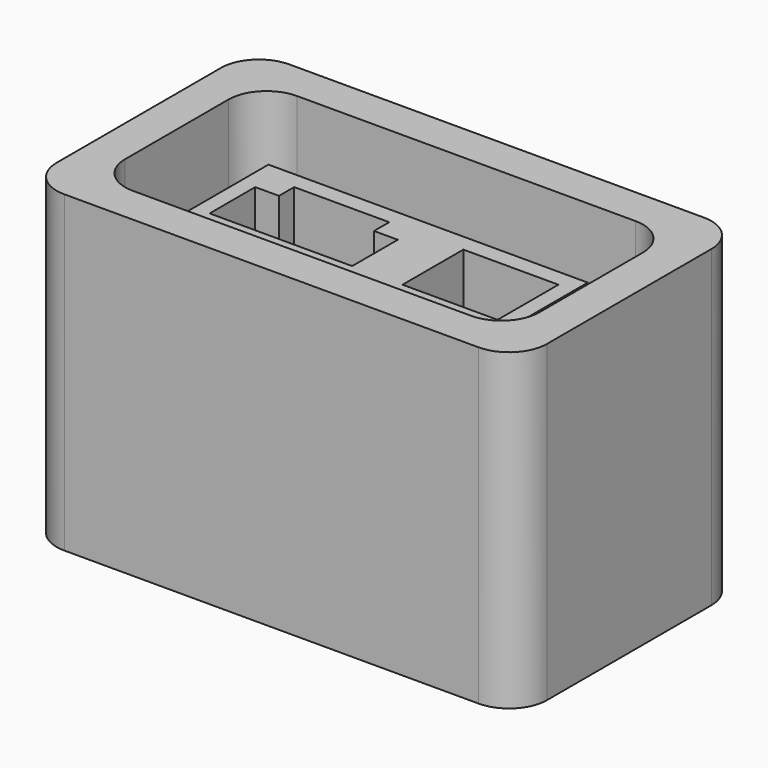
from build123d import *

# Parameters (mm, degrees)
F0_W      = 25.8
F0_H      = 14.8
F1_DEPTH  = 2
F2_W      = 25.8
F2_H      = 14.8
F2_W_2    = 21.8
F2_H_2    = 10.8
F3_DEPTH  = 14.5
F4_W      = 17.8
F4_H      = 6.8
F5_DEPTH  = 12.5
F7_DEPTH  = 17.8
F8_SIZE   = 0.5
F9_R      = 2
F10_W     = 5
F10_H     = 4
F11_DEPTH = 6
F12_W     = 17.8
F12_H     = 0.5
F12_H_2   = 2
F13_DEPTH = 1.8


with BuildPart() as f1:
    # F0 (on Top) → F1 (new body)
    with BuildSketch(Plane.XY):
        Rectangle(F0_W, F0_H)
    extrude(amount=F1_DEPTH)

    # F2 (on face) → F3 (join)
    with BuildSketch(Plane.XY.offset(2)):
        Rectangle(F2_W, F2_H)
        Rectangle(F2_W_2, F2_H_2, mode=Mode.SUBTRACT)
    extrude(amount=F3_DEPTH)

    # F4 (on face) → F5 (join)
    with BuildSketch(Plane.XY.offset(2)):
        Rectangle(F4_W, F4_H)
    extrude(amount=F5_DEPTH)

    # F6 (on face) → F7 (cut)
    with BuildSketch(Plane.YZ.offset(8.9)):
        Polygon((2.2, 2.000455), (3.4, 2), (3.4, 10), (2.2, 7.250455), align=None)
    extrude(amount=-F7_DEPTH, mode=Mode.SUBTRACT)

    # F8
    f8_edges = [f1.edges().sort_by_distance(p)[0] for p in [
        (0, 3.4, 14.5),
        (-8.9, 0, 14.5),
        (0, -3.4, 14.5),
        (8.9, 0, 14.5),
        (-8.9, -3.4, 8.25),
        (8.9, -3.4, 8.25),
        (8.9, 3.4, 12.25),
        (-8.9, 3.4, 12.25),
        (-8.9, 2.2, 4.625455),
        (-8.9, 2.8, 8.625227),
        (8.9, 2.2, 4.625455),
        (8.9, 2.8, 8.625227),
    ]]
    chamfer(f8_edges, length=F8_SIZE)

    # F9
    f9_edges = [f1.edges().sort_by_distance(p)[0] for p in [
        (-12.9, 7.4, 8.25),
        (12.9, 7.4, 8.25),
        (10.9, 5.4, 9.25),
        (-10.9, 5.4, 9.25),
        (10.9, -5.4, 9.25),
        (-10.9, -5.4, 9.25),
        (-12.9, -7.4, 8.25),
        (12.9, -7.4, 8.25),
    ]]
    fillet(f9_edges, radius=F9_R)

    # F10 (on face) → F11 (cut)
    with BuildSketch(Plane.XY.offset(16.5)):
        Polygon((-7.575, 1), (-7.575, -2), (-0.075, -2), (-0.075, 1), (-1.325, 1), (-1.325, 2), (-6.325, 2), (-6.325, 1), align=None)
        with Locations((5.075, 0)):
            Rectangle(F10_W, F10_H)
    extrude(amount=-F11_DEPTH, mode=Mode.SUBTRACT)

    # F12 (on face) → F13 (cut)
    with BuildSketch(Plane.XY.offset(2)):
        with Locations((0, -3.15)):
            Rectangle(F12_W, F12_H)
        with Locations((0, -4.4)):
            Rectangle(F12_W, F12_H_2)
    extrude(amount=-F13_DEPTH, mode=Mode.SUBTRACT)


solid = f1.part
